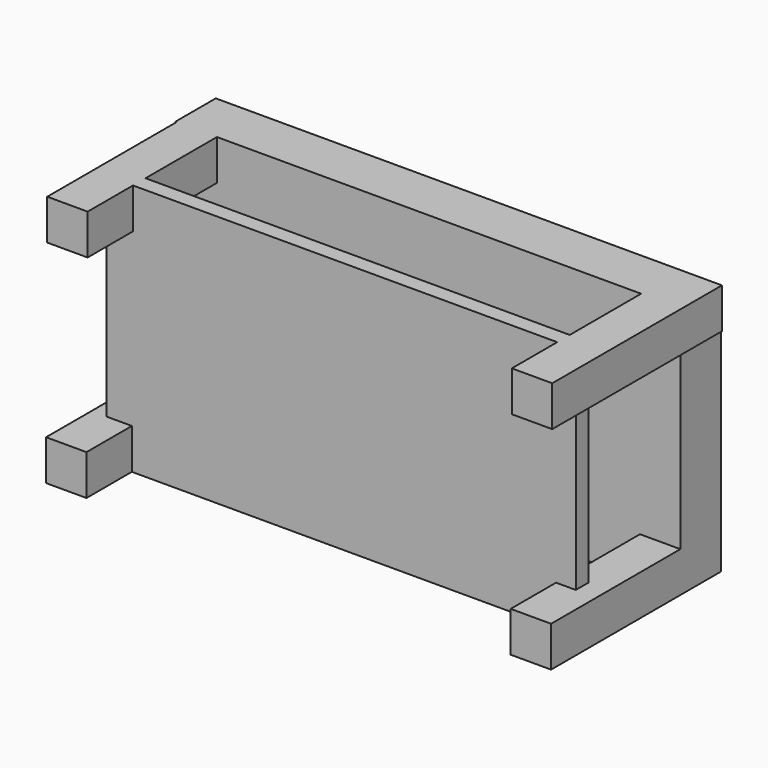
from build123d import *

# Parameters (mm, degrees)
SKETCH_W     = 1000
SKETCH_H     = 500
PAD_DEPTH    = 100
SKETCH001_W  = 80
SKETCH001_H  = 80
PAD001_DEPTH = 420
SKETCH002_W  = 929.743311
SKETCH002_H  = 30.979035
PAD002_DEPTH = 500


with BuildPart() as part:
    # Sketch → Pad (new body)
    with BuildSketch(Plane.XZ):
        with Locations((500, 250)):
            Rectangle(SKETCH_W, SKETCH_H)
    extrude(amount=PAD_DEPTH)

    # Sketch001 → Pad001 (join)
    with BuildSketch(Plane.XZ):
        with Locations((42.294634, 460)):
            Rectangle(SKETCH001_W, SKETCH001_H)
        with Locations((40, 40)):
            Rectangle(SKETCH001_W, SKETCH001_H)
        with Locations((962.294634, 460)):
            Rectangle(SKETCH001_W, SKETCH001_H)
        with Locations((960, 40)):
            Rectangle(SKETCH001_W, SKETCH001_H)
    extrude(amount=PAD001_DEPTH)

    # Sketch002 (on Face16 of Pad001) → Pad002 (join)
    with BuildSketch(Plane(origin=(0, 0, 0), x_dir=(1, 0, 0), z_dir=(0, 0, -1))):
        with Locations((494.238269, 292.201278)):
            Rectangle(SKETCH002_W, SKETCH002_H)
    extrude(amount=-PAD002_DEPTH)


solid = part.part
